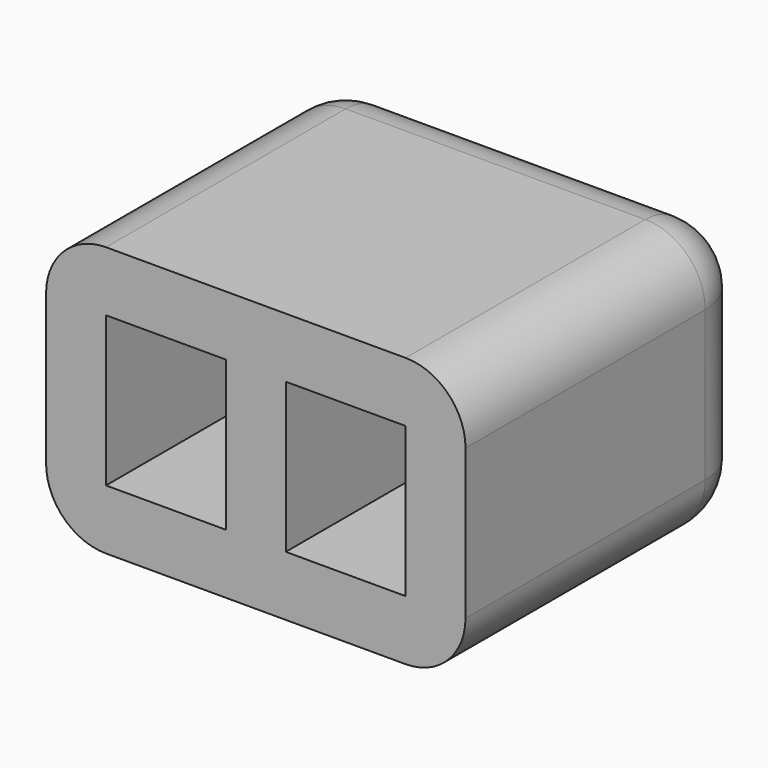
from build123d import *

# Parameters (mm, degrees)
F1_DEPTH = 2.5
F0_W     = 4
F0_H     = 10
F2_DEPTH = 2
F5_R     = 2


with BuildPart() as f1:
    # F0 (on Top) → F1 (new body)
    with BuildSketch(Plane.XY):
        Polygon((0, 12), (0, 0), (1, 0), (1, 10), (5, 10), (5, 0), (7, 0), (7, 12), align=None)
    extrude(amount=F1_DEPTH)

    # F0 (on Top) → F2 (join)
    with BuildSketch(Plane.XY):
        with Locations((3, 5)):
            Rectangle(F0_W, F0_H)
        Polygon((0, 12), (0, 0), (1, 0), (1, 10), (5, 10), (5, 0), (7, 0), (7, 12), align=None)
    extrude(amount=-F2_DEPTH)

    # F3: F1 across face


with BuildPart() as f1_1:
    add(f1.part)
    add(f1.part.mirror(Plane(origin=(0, 6, 0.25), x_dir=(0, -1, 0), z_dir=(-1, 0, 0))))

    # F4: F1 across face


with BuildPart() as f1_2:
    add(f1_1.part)
    add(f1_1.part.mirror(Plane(origin=(0, 6.9090909091, 2.5), x_dir=(1, 0, 0), z_dir=(0, 0, 1))))

    # F5
    f5_edges = [f1_2.edges().sort_by_distance(p)[0] for p in [
        (0, 12, 7),
        (7, 12, 2.5),
        (0, 12, -2),
        (-7, 12, 2.5),
        (7, 6, 7),
        (-7, 6, 7),
        (7, 6, -2),
        (-7, 6, -2),
    ]]
    fillet(f5_edges, radius=F5_R)


solid = f1_2.part
